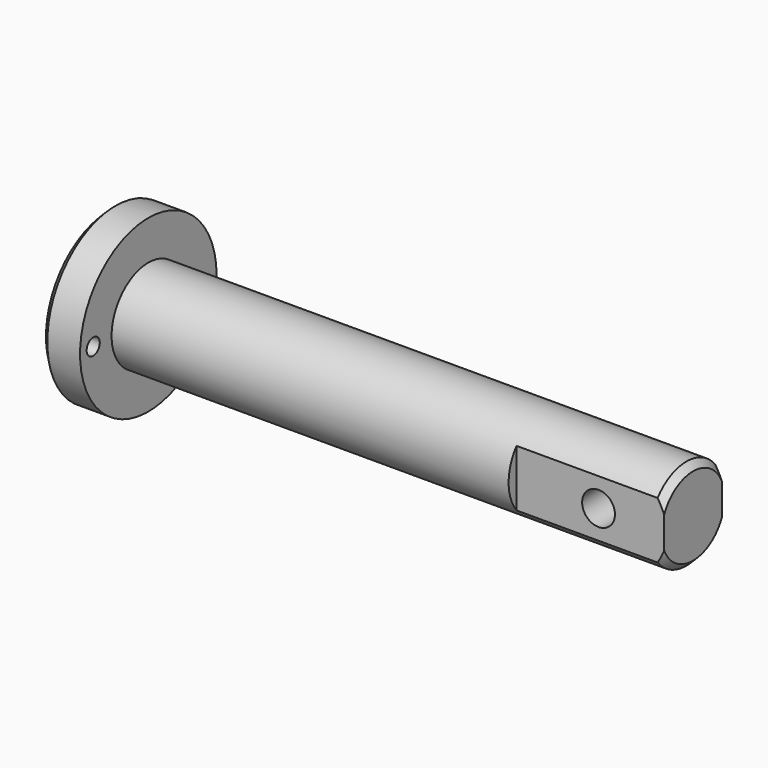
from build123d import *

# Parameters (mm, degrees)
F0_R     = 26
F0_R_2   = 14
F1_DEPTH = 12
F2_DEPTH = 178
F3_SIZE  = 2
F4_R     = 2.5
F5_DEPTH = 12
F7_DEPTH = 45
F8_R     = 5
F9_DEPTH = 22


with BuildPart() as f1:
    # F0 (on Right) → F1 (new body)
    with BuildSketch(Plane.YZ):
        Circle(F0_R)
        Circle(F0_R_2, mode=Mode.SUBTRACT)
        Circle(F0_R_2)
    extrude(amount=F1_DEPTH)

    # F0 (on Right) → F2 (join)
    with BuildSketch(Plane.YZ):
        Circle(F0_R_2)
    extrude(amount=F2_DEPTH)

    # F3
    f3_edges = [f1.edges().sort_by_distance(p)[0] for p in [
        (0, -26, 0),
        (178, -14, 0),
    ]]
    chamfer(f3_edges, length=F3_SIZE)

    # F4 (on face) → F5 (cut, through all)
    with BuildSketch(Plane(origin=(0, 0, 0), x_dir=(0, -1, 0), z_dir=(-1, 0, 0))):
        with Locations((21, 0)):
            Circle(F4_R)
    extrude(amount=-F5_DEPTH, mode=Mode.SUBTRACT)

    # F6 (on face) → F7 (cut)
    with BuildSketch(Plane.YZ.offset(178)):
        with BuildLine():
            Line((-11, 4.7958315233), (-11, 8.6602540378))
            ThreePointArc((-11, 8.6602540378), (-14, 0), (-11, -8.6602540378))
            Line((-11, -8.6602540378), (-11, -4.7958315233))
            ThreePointArc((-11, -4.7958315233), (-12, 0), (-11, 4.7958315233))
        make_face()
        with BuildLine():
            Line((-11, -4.7958315233), (-11, 4.7958315233))
            ThreePointArc((-11, 4.7958315233), (-12, 0), (-11, -4.7958315233))
        make_face()
        with BuildLine():
            ThreePointArc((12, 0), (11.7473401245, 2.4494897428), (11, 4.7958315233))
            Line((11, 4.7958315233), (11, -4.7958315233))
            ThreePointArc((11, -4.7958315233), (11.7473401245, -2.4494897428), (12, 0))
        make_face()
        with BuildLine():
            ThreePointArc((11, -8.6602540378), (13.2287565553, -4.582575695), (14, 0))
            ThreePointArc((14, 0), (13.2287565553, 4.582575695), (11, 8.6602540378))
            Line((11, 8.6602540378), (11, 4.7958315233))
            ThreePointArc((11, 4.7958315233), (11.7473401245, 2.4494897428), (12, 0))
            ThreePointArc((12, 0), (11.7473401245, -2.4494897428), (11, -4.7958315233))
            Line((11, -4.7958315233), (11, -8.6602540378))
        make_face()
    extrude(amount=-F7_DEPTH, mode=Mode.SUBTRACT)

    # F8 (on face) → F9 (cut, through all)
    with BuildSketch(Plane.XZ.offset(11)):
        with Locations((158, 0)):
            Circle(F8_R)
    extrude(amount=-F9_DEPTH, mode=Mode.SUBTRACT)


solid = f1.part
